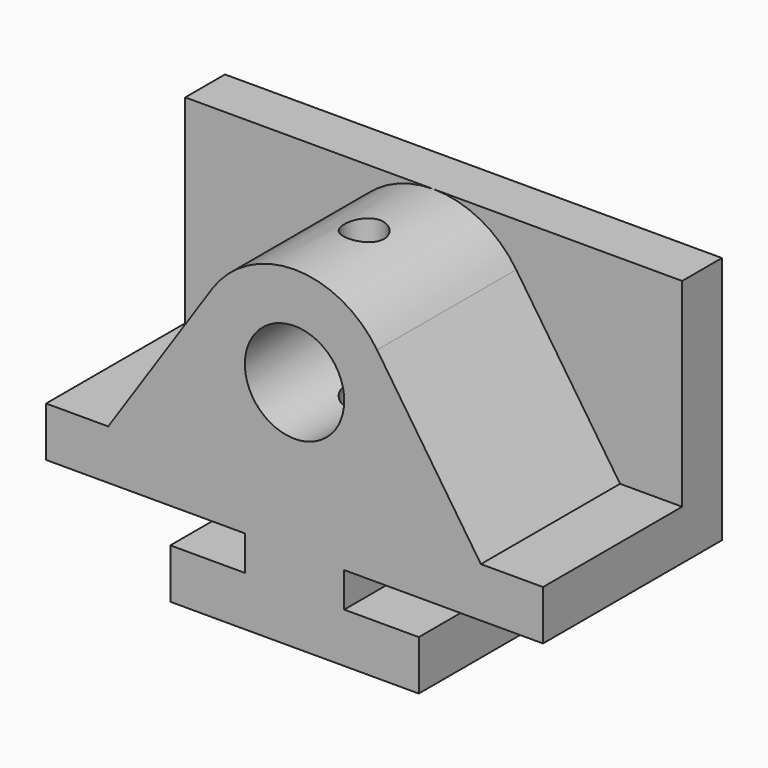
from build123d import *

# Parameters (mm, degrees)
F0_R     = 12.7
F1_DEPTH = 44.45
F3_DEPTH = 12.7
F4_R     = 5.08
F5_DEPTH = 63.501


with BuildPart() as f1:
    # F0 (on Front) → F1 (new body)
    with BuildSketch(Plane.XZ):
        with BuildLine():
            Line((-31.75, -8.89), (-31.75, -21.59))
            Line((-31.75, -21.59), (0, -21.59))
            Line((0, -21.59), (31.75, -21.59))
            Line((31.75, -21.59), (31.75, -8.89))
            Line((31.75, -8.89), (12.7, -8.89))
            Line((12.7, -8.89), (12.7, 0))
            Line((12.7, 0), (63.5, 0))
            Line((63.5, 0), (63.5, 12.7))
            Line((63.5, 12.7), (47.625, 12.7))
            Line((47.625, 12.7), (21.093426, 52.250173))
            ThreePointArc((21.093426, 52.250173), (0, 63.5), (-21.093426, 52.250173))
            Line((-21.093426, 52.250173), (-47.625, 12.7))
            Line((-47.625, 12.7), (-63.5, 12.7))
            Line((-63.5, 12.7), (-63.5, 0))
            Line((-63.5, 0), (-12.7, 0))
            Line((-12.7, 0), (-12.7, -8.89))
            Line((-12.7, -8.89), (-31.75, -8.89))
        make_face()
        with Locations((0, 38.1)):
            Circle(F0_R, mode=Mode.SUBTRACT)
    extrude(amount=F1_DEPTH)

    # F2 (on Front) → F3 (join)
    with BuildSketch(Plane.XZ):
        Polygon((-63.5, 63.5), (-63.5, 0), (-12.7, 0), (12.7, 0), (63.5, 0), (63.5, 63.5), align=None)
    extrude(amount=-F3_DEPTH)

    # F4 (on Top) → F5 (cut, through all)
    with BuildSketch(Plane.XY):
        with Locations((0, -22.225)):
            Circle(F4_R)
    extrude(amount=F5_DEPTH, mode=Mode.SUBTRACT)


solid = f1.part
